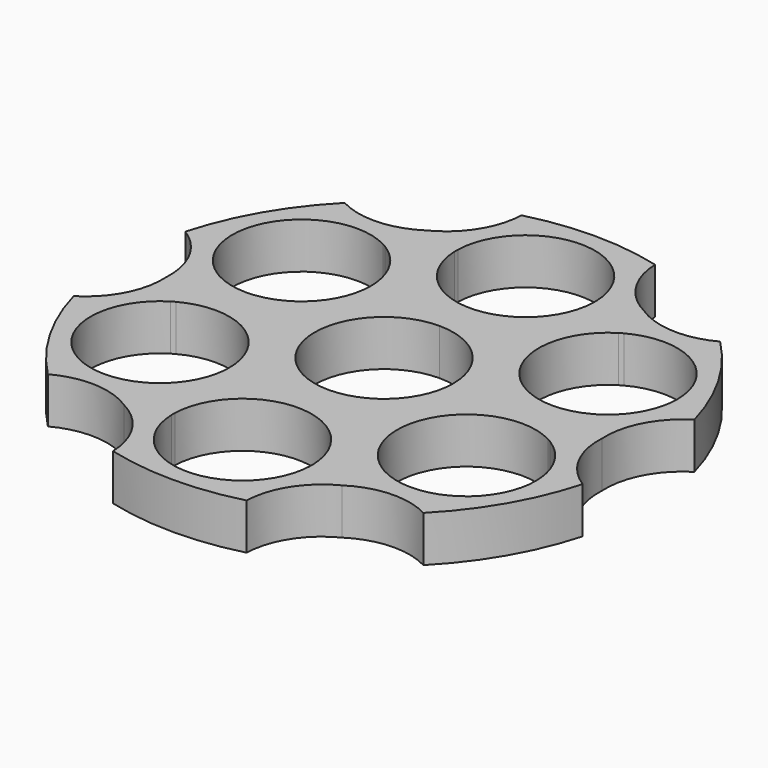
from build123d import *

# Parameters (mm, degrees)
F1_DEPTH = 7.5


with BuildPart() as f1:
    # F0 (on Top) → F1 (new body)
    with BuildSketch(Plane.XY):
        with BuildLine():
            Line((10.8992387595, -41.6505390537), (11.2972032945, -29.229196955))
            ThreePointArc((11.2972032945, -29.229196955), (0, -40.1702484457), (-11.2972032945, -29.229196955))
            Line((-11.2972032945, -29.229196955), (-10.8992387595, -41.6505390537))
            ThreePointArc((-10.8992387595, -41.6505390537), (0, -43.053), (10.8992387595, -41.6505390537))
        make_face()
        with BuildLine():
            Line((11.2972032945, -19.5673300895), (3.0451878052, -14.8030267253))
            ThreePointArc((3.0451878052, -14.8030267253), (0, -15.113), (-3.0451878052, -14.8030267253))
            Line((-3.0451878052, -14.8030267253), (-11.2972032945, -19.5673300895))
            Line((-11.2972032945, -19.5673300895), (-11.2972032945, -28.5052999365))
            ThreePointArc((-11.2972032945, -28.5052999365), (0, -17.5642484457), (11.2972032945, -28.5052999365))
            Line((11.2972032945, -28.5052999365), (11.2972032945, -19.5673300895))
        make_face()
        with BuildLine():
            Line((-11.2972032945, -28.5052999365), (-11.2972032945, -19.5673300895))
            Line((-11.2972032945, -19.5673300895), (-19.0377122402, -24.036315013))
            ThreePointArc((-19.0377122402, -24.036315013), (-19.3482704914, -24.2223093618), (-19.664625448, -24.3982635222))
            Line((-19.664625448, -24.3982635222), (-30.6208055221, -30.2642871745))
            ThreePointArc((-30.6208055221, -30.2642871745), (-24.1291251272, -28.7802900435), (-17.7852261309, -30.8049152829))
            ThreePointArc((-17.7852261309, -30.8049152829), (-12.8598997424, -35.286580353), (-10.8992387595, -41.6505390537))
            Line((-10.8992387595, -41.6505390537), (-11.2972032945, -29.229196955))
            ThreePointArc((-11.2972032945, -29.229196955), (-11.303, -28.8672484457), (-11.2972032945, -28.5052999365))
        make_face()
        with BuildLine():
            Line((-11.2972032945, -19.5673300895), (-3.0451878052, -14.8030267253))
            ThreePointArc((-3.0451878052, -14.8030267253), (-7.5565, -13.0882419274), (-11.2972032945, -10.0387233612))
            Line((-11.2972032945, -10.0387233612), (-11.2972032945, -19.5673300895))
        make_face()
        with BuildLine():
            Line((11.2972032945, -19.5673300895), (11.2972032945, -10.0387233612))
            ThreePointArc((11.2972032945, -10.0387233612), (7.5565, -13.0882419274), (3.0451878052, -14.8030267253))
            Line((3.0451878052, -14.8030267253), (11.2972032945, -19.5673300895))
        make_face()
        with BuildLine():
            ThreePointArc((14.3423910996, -4.7643033641), (14.9191039558, -2.413111302), (15.113, 0))
            ThreePointArc((15.113, 0), (14.9191039558, 2.413111302), (14.3423910996, 4.7643033641))
            ThreePointArc((14.3423910996, 4.7643033641), (13.0882419274, 7.5565), (11.2972032945, 10.0387233612))
            ThreePointArc((11.2972032945, 10.0387233612), (7.5565, 13.0882419274), (3.0451878052, 14.8030267253))
            ThreePointArc((3.0451878052, 14.8030267253), (0, 15.113), (-3.0451878052, 14.8030267253))
            ThreePointArc((-3.0451878052, 14.8030267253), (-7.5565, 13.0882419274), (-11.2972032945, 10.0387233612))
            ThreePointArc((-11.2972032945, 10.0387233612), (-13.0882419274, 7.5565), (-14.3423910996, 4.7643033641))
            ThreePointArc((-14.3423910996, 4.7643033641), (-15.113, 0), (-14.3423910996, -4.7643033641))
            ThreePointArc((-14.3423910996, -4.7643033641), (-13.0882419274, -7.5565), (-11.2972032945, -10.0387233612))
            ThreePointArc((-11.2972032945, -10.0387233612), (-7.5565, -13.0882419274), (-3.0451878052, -14.8030267253))
            ThreePointArc((-3.0451878052, -14.8030267253), (0, -15.113), (3.0451878052, -14.8030267253))
            ThreePointArc((3.0451878052, -14.8030267253), (7.5565, -13.0882419274), (11.2972032945, -10.0387233612))
            ThreePointArc((11.2972032945, -10.0387233612), (13.0882419274, -7.5565), (14.3423910996, -4.7643033641))
        make_face()
        with BuildLine():
            ThreePointArc((0, 11.303), (7.9924279478, 7.9924279478), (11.303, 0))
            ThreePointArc((11.303, 0), (7.9924279478, -7.9924279478), (0, -11.303))
            ThreePointArc((0, -11.303), (-11.303, 0), (0, 11.303))
        make_face(mode=Mode.SUBTRACT)
        with BuildLine():
            Line((-11.2972032945, -19.5673300895), (-11.2972032945, -10.0387233612))
            ThreePointArc((-11.2972032945, -10.0387233612), (-13.0882419274, -7.5565), (-14.3423910996, -4.7643033641))
            Line((-14.3423910996, -4.7643033641), (-22.5944065889, 0))
            Line((-22.5944065889, 0), (-30.3349155347, -4.4689849235))
            ThreePointArc((-30.3349155347, -4.4689849235), (-19.1922467258, -4.736692919), (-13.6967704914, -14.4336242229))
            ThreePointArc((-13.6967704914, -14.4336242229), (-15.1218417254, -19.927651188), (-19.0377122402, -24.036315013))
            Line((-19.0377122402, -24.036315013), (-11.2972032945, -19.5673300895))
        make_face()
        with BuildLine():
            Line((19.0377122402, -24.036315013), (11.2972032945, -19.5673300895))
            Line((11.2972032945, -19.5673300895), (11.2972032945, -28.5052999365))
            ThreePointArc((11.2972032945, -28.5052999365), (11.3015507307, -28.6862509836), (11.303, -28.8672484457))
            ThreePointArc((11.303, -28.8672484457), (11.3015507307, -29.0482459079), (11.2972032945, -29.229196955))
            Line((11.2972032945, -29.229196955), (10.8992387595, -41.6505390537))
            ThreePointArc((10.8992387595, -41.6505390537), (12.8598997424, -35.286580353), (17.7852261309, -30.8049152829))
            ThreePointArc((17.7852261309, -30.8049152829), (24.1291251272, -28.7802900435), (30.6208055221, -30.2642871745))
            Line((30.6208055221, -30.2642871745), (19.664625448, -24.3982635222))
            ThreePointArc((19.664625448, -24.3982635222), (19.3482704914, -24.2223093619), (19.0377122402, -24.036315013))
        make_face()
        with BuildLine():
            Line((22.5944065889, 0), (14.3423910996, -4.7643033641))
            ThreePointArc((14.3423910996, -4.7643033641), (13.0882419274, -7.5565), (11.2972032945, -10.0387233612))
            Line((11.2972032945, -10.0387233612), (11.2972032945, -19.5673300895))
            Line((11.2972032945, -19.5673300895), (19.0377122402, -24.036315013))
            ThreePointArc((19.0377122402, -24.036315013), (15.2110853524, -8.7821242229), (30.3349155347, -4.4689849235))
            Line((30.3349155347, -4.4689849235), (22.5944065889, 0))
        make_face()
        with BuildLine():
            Line((41.5200442816, -11.3862518792), (30.9618287425, -4.8309334328))
            ThreePointArc((30.9618287425, -4.8309334328), (34.8776992574, -8.9395972577), (36.3027704914, -14.4336242229))
            ThreePointArc((36.3027704914, -14.4336242229), (30.8072942569, -24.1305555268), (19.664625448, -24.3982635222))
            Line((19.664625448, -24.3982635222), (30.6208055221, -30.2642871745))
            ThreePointArc((30.6208055221, -30.2642871745), (37.2849917091, -21.5265), (41.5200442816, -11.3862518792))
        make_face()
        with BuildLine():
            Line((-30.6208055221, -30.2642871745), (-19.664625448, -24.3982635222))
            ThreePointArc((-19.664625448, -24.3982635222), (-34.7884556304, -20.0851242229), (-30.9618287425, -4.8309334328))
            Line((-30.9618287425, -4.8309334328), (-41.5200442816, -11.3862518792))
            ThreePointArc((-41.5200442816, -11.3862518792), (-37.2849917091, -21.5265), (-30.6208055221, -30.2642871745))
        make_face()
        with BuildLine():
            Line((-30.3349155347, -4.4689849235), (-22.5944065889, 0))
            Line((-22.5944065889, 0), (-30.3349155347, 4.4689849235))
            ThreePointArc((-30.3349155347, 4.4689849235), (-30.6512704914, 4.6449390839), (-30.9618287425, 4.8309334328))
            Line((-30.9618287425, 4.8309334328), (-41.5200442816, 11.3862518792))
            ThreePointArc((-41.5200442816, 11.3862518792), (-36.9890248695, 6.5062903095), (-35.5704522619, 0))
            ThreePointArc((-35.5704522619, 0), (-36.9890248695, -6.5062903095), (-41.5200442816, -11.3862518792))
            Line((-41.5200442816, -11.3862518792), (-30.9618287425, -4.8309334328))
            ThreePointArc((-30.9618287425, -4.8309334328), (-30.6512704914, -4.6449390839), (-30.3349155347, -4.4689849235))
        make_face()
        with BuildLine():
            ThreePointArc((-14.3423910996, -4.7643033641), (-15.113, 0), (-14.3423910996, 4.7643033641))
            Line((-14.3423910996, 4.7643033641), (-22.5944065889, 0))
            Line((-22.5944065889, 0), (-14.3423910996, -4.7643033641))
        make_face()
        with BuildLine():
            ThreePointArc((-14.3423910996, 4.7643033641), (-13.0882419274, 7.5565), (-11.2972032945, 10.0387233612))
            Line((-11.2972032945, 10.0387233612), (-11.2972032945, 19.5673300895))
            Line((-11.2972032945, 19.5673300895), (-19.0377122402, 24.036315013))
            ThreePointArc((-19.0377122402, 24.036315013), (-15.1218417254, 19.927651188), (-13.6967704914, 14.4336242229))
            ThreePointArc((-13.6967704914, 14.4336242229), (-19.1922467258, 4.736692919), (-30.3349155347, 4.4689849235))
            Line((-30.3349155347, 4.4689849235), (-22.5944065889, 0))
            Line((-22.5944065889, 0), (-14.3423910996, 4.7643033641))
        make_face()
        with BuildLine():
            ThreePointArc((-30.9618287425, 4.8309334328), (-34.7884556304, 20.0851242229), (-19.664625448, 24.3982635222))
            Line((-19.664625448, 24.3982635222), (-30.6208055221, 30.2642871745))
            ThreePointArc((-30.6208055221, 30.2642871745), (-37.2849917091, 21.5265), (-41.5200442816, 11.3862518792))
            Line((-41.5200442816, 11.3862518792), (-30.9618287425, 4.8309334328))
        make_face()
        with BuildLine():
            Line((30.3349155347, 4.4689849235), (22.5944065889, 0))
            Line((22.5944065889, 0), (30.3349155347, -4.4689849235))
            ThreePointArc((30.3349155347, -4.4689849235), (30.6512704914, -4.6449390839), (30.9618287425, -4.8309334328))
            Line((30.9618287425, -4.8309334328), (41.5200442816, -11.3862518792))
            ThreePointArc((41.5200442816, -11.3862518792), (36.9890248695, -6.5062903095), (35.5704522619, 0))
            ThreePointArc((35.5704522619, 0), (36.9890248695, 6.5062903095), (41.5200442816, 11.3862518792))
            Line((41.5200442816, 11.3862518792), (30.9618287425, 4.8309334328))
            ThreePointArc((30.9618287425, 4.8309334328), (30.6512704914, 4.6449390839), (30.3349155347, 4.4689849235))
        make_face()
        with BuildLine():
            ThreePointArc((14.3423910996, 4.7643033641), (14.9191039558, 2.413111302), (15.113, 0))
            ThreePointArc((15.113, 0), (14.9191039558, -2.413111302), (14.3423910996, -4.7643033641))
            Line((14.3423910996, -4.7643033641), (22.5944065889, 0))
            Line((22.5944065889, 0), (14.3423910996, 4.7643033641))
        make_face()
        with BuildLine():
            ThreePointArc((11.2972032945, 10.0387233612), (13.0882419274, 7.5565), (14.3423910996, 4.7643033641))
            Line((14.3423910996, 4.7643033641), (22.5944065889, 0))
            Line((22.5944065889, 0), (30.3349155347, 4.4689849235))
            ThreePointArc((30.3349155347, 4.4689849235), (15.2110853524, 8.7821242229), (19.0377122402, 24.036315013))
            Line((19.0377122402, 24.036315013), (11.2972032945, 19.5673300895))
            Line((11.2972032945, 19.5673300895), (11.2972032945, 10.0387233612))
        make_face()
        with BuildLine():
            ThreePointArc((36.3027704914, 14.4336242229), (34.8776992574, 8.9395972577), (30.9618287425, 4.8309334328))
            Line((30.9618287425, 4.8309334328), (41.5200442816, 11.3862518792))
            ThreePointArc((41.5200442816, 11.3862518792), (37.2849917091, 21.5265), (30.6208055221, 30.2642871745))
            Line((30.6208055221, 30.2642871745), (19.664625448, 24.3982635222))
            ThreePointArc((19.664625448, 24.3982635222), (30.8072942569, 24.1305555268), (36.3027704914, 14.4336242229))
        make_face()
        with BuildLine():
            ThreePointArc((3.0451878052, 14.8030267253), (7.5565, 13.0882419274), (11.2972032945, 10.0387233612))
            Line((11.2972032945, 10.0387233612), (11.2972032945, 19.5673300895))
            Line((11.2972032945, 19.5673300895), (3.0451878052, 14.8030267253))
        make_face()
        with BuildLine():
            ThreePointArc((-11.2972032945, 10.0387233612), (-7.5565, 13.0882419274), (-3.0451878052, 14.8030267253))
            Line((-3.0451878052, 14.8030267253), (-11.2972032945, 19.5673300895))
            Line((-11.2972032945, 19.5673300895), (-11.2972032945, 10.0387233612))
        make_face()
        with BuildLine():
            ThreePointArc((-3.0451878052, 14.8030267253), (0, 15.113), (3.0451878052, 14.8030267253))
            Line((3.0451878052, 14.8030267253), (11.2972032945, 19.5673300895))
            Line((11.2972032945, 19.5673300895), (11.2972032945, 28.5052999365))
            ThreePointArc((11.2972032945, 28.5052999365), (0, 17.5642484457), (-11.2972032945, 28.5052999365))
            Line((-11.2972032945, 28.5052999365), (-11.2972032945, 19.5673300895))
            Line((-11.2972032945, 19.5673300895), (-3.0451878052, 14.8030267253))
        make_face()
        with BuildLine():
            ThreePointArc((-11.2972032945, 29.229196955), (0, 40.1702484457), (11.2972032945, 29.229196955))
            Line((11.2972032945, 29.229196955), (10.8992387595, 41.6505390537))
            ThreePointArc((10.8992387595, 41.6505390537), (0, 43.053), (-10.8992387595, 41.6505390537))
            Line((-10.8992387595, 41.6505390537), (-11.2972032945, 29.229196955))
        make_face()
        with BuildLine():
            Line((-19.0377122402, 24.036315013), (-11.2972032945, 19.5673300895))
            Line((-11.2972032945, 19.5673300895), (-11.2972032945, 28.5052999365))
            ThreePointArc((-11.2972032945, 28.5052999365), (-11.303, 28.8672484457), (-11.2972032945, 29.229196955))
            Line((-11.2972032945, 29.229196955), (-10.8992387595, 41.6505390537))
            ThreePointArc((-10.8992387595, 41.6505390537), (-12.8598997424, 35.286580353), (-17.7852261309, 30.8049152829))
            ThreePointArc((-17.7852261309, 30.8049152829), (-24.1291251272, 28.7802900435), (-30.6208055221, 30.2642871745))
            Line((-30.6208055221, 30.2642871745), (-19.664625448, 24.3982635222))
            ThreePointArc((-19.664625448, 24.3982635222), (-19.3482704914, 24.2223093619), (-19.0377122402, 24.036315013))
        make_face()
        with BuildLine():
            Line((11.2972032945, 28.5052999365), (11.2972032945, 19.5673300895))
            Line((11.2972032945, 19.5673300895), (19.0377122402, 24.036315013))
            ThreePointArc((19.0377122402, 24.036315013), (19.3482704914, 24.2223093619), (19.664625448, 24.3982635222))
            Line((19.664625448, 24.3982635222), (30.6208055221, 30.2642871745))
            ThreePointArc((30.6208055221, 30.2642871745), (24.1291251272, 28.7802900435), (17.7852261309, 30.8049152829))
            ThreePointArc((17.7852261309, 30.8049152829), (12.8598997424, 35.286580353), (10.8992387595, 41.6505390537))
            Line((10.8992387595, 41.6505390537), (11.2972032945, 29.229196955))
            ThreePointArc((11.2972032945, 29.229196955), (11.3015507307, 29.0482459079), (11.303, 28.8672484457))
            ThreePointArc((11.303, 28.8672484457), (11.3015507307, 28.6862509836), (11.2972032945, 28.5052999365))
        make_face()
    extrude(amount=F1_DEPTH)


solid = f1.part
